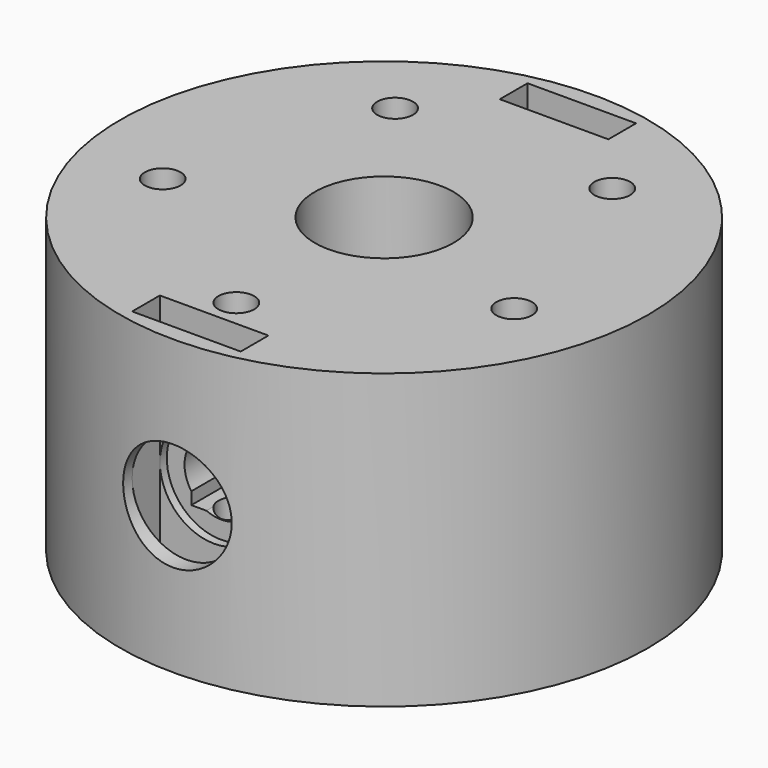
from build123d import *

# Parameters (mm, degrees)
SKETCH019_R           = 22.86
PAD003_DEPTH          = 25.4
SKETCH021_R           = 1.55
POCKET017_DEPTH       = 164.33691
POLARPATTERN007_COUNT = 5
SKETCH022_W           = 45.72
SKETCH022_H           = 45.72
PAD004_DEPTH          = 10
SKETCH023_W           = 5.15
SKETCH023_H           = 5.8
POCKET018_DEPTH       = 45.721
SKETCH025_R           = 4.7
POCKET020_DEPTH       = 5.21
SKETCH028_R           = 6
POCKET023_DEPTH       = 35.401
SKETCH027_R           = 1.5
POCKET024_DEPTH       = 10
SKETCH029_R           = 4.7
POCKET025_DEPTH       = 5.21
SKETCH031_W           = 9.4
SKETCH031_H           = 3
POCKET027_DEPTH       = 35.401
SKETCH034_R           = 3.1645
POCKET029_DEPTH       = 45.721
SKETCH030_W           = 45.72
SKETCH030_H           = 45.72
POCKET030_DEPTH       = 10


with BuildPart() as part:
    # Sketch019 → Pad003 (new body)
    with BuildSketch(Plane.XY):
        Circle(SKETCH019_R)
    extrude(amount=PAD003_DEPTH)

    # Sketch021 → Pocket017 (cut, through all)
    with BuildSketch(Plane(origin=(0, 0, 0), x_dir=(1, 0, 0), z_dir=(0, 0, -1))):
        with Locations((0, 16)):
            Circle(SKETCH021_R)
    pocket017 = extrude(amount=-POCKET017_DEPTH, mode=Mode.SUBTRACT)

    # PolarPattern007: Pocket017 ×5 about axis
    polarpattern007_axis = Axis((0, 0, 0), (0, 0, -1))
    for i in range(1, POLARPATTERN007_COUNT):
        add(pocket017.rotate(polarpattern007_axis, i * 360 / POLARPATTERN007_COUNT), mode=Mode.SUBTRACT)

    # Sketch022 (on Face2 of PolarPattern007) → Pad004 (join)
    with BuildSketch(Plane(origin=(0, 0, 0), x_dir=(1, 0, 0), z_dir=(0, 0, -1))):
        Rectangle(SKETCH022_W, SKETCH022_H)
    extrude(amount=PAD004_DEPTH)

    # Sketch023 (on Face7 of Pad004) → Pocket018 (cut, through all)
    with BuildSketch(Plane(origin=(0, 22.86, 0), x_dir=(-1, 0, 0), z_dir=(0, 1, 0))):
        with Locations((0, 12.7)):
            Rectangle(SKETCH023_W, SKETCH023_H)
    extrude(amount=-POCKET018_DEPTH, mode=Mode.SUBTRACT)

    # Sketch025 → Pocket020 (cut)
    with BuildSketch(Plane.XZ.offset(22.86)):
        with Locations((0, 12.7)):
            Circle(SKETCH025_R)
    extrude(amount=-POCKET020_DEPTH, mode=Mode.SUBTRACT)

    # Sketch028 → Pocket023 (cut, through all)
    with BuildSketch(Plane.XY.offset(25.4)):
        Circle(SKETCH028_R)
    extrude(amount=-POCKET023_DEPTH, mode=Mode.SUBTRACT)

    # Sketch027 (on Face14 of Pocket023) → Pocket024 (cut)
    with BuildSketch(Plane(origin=(-22.86, 0, 0), x_dir=(0, -1, 0), z_dir=(-1, 0, 0))):
        with Locations((0, 12.7)):
            Circle(SKETCH027_R)
    extrude(amount=-POCKET024_DEPTH, mode=Mode.SUBTRACT)

    # Sketch029 (on Face19 of Pocket024) → Pocket025 (cut)
    with BuildSketch(Plane(origin=(0, 22.86, 0), x_dir=(-1, 0, 0), z_dir=(0, 1, 0))):
        with Locations((0, 12.7)):
            Circle(SKETCH029_R)
    extrude(amount=-POCKET025_DEPTH, mode=Mode.SUBTRACT)

    # Sketch031 → Pocket027 (cut, through all)
    with BuildSketch(Plane.XY.offset(25.4)):
        with Locations((0, 19.9)):
            Rectangle(SKETCH031_W, SKETCH031_H)
        with Locations((0, -19.9)):
            Rectangle(SKETCH031_W, SKETCH031_H)
    extrude(amount=-POCKET027_DEPTH, mode=Mode.SUBTRACT)

    # Sketch034 → Pocket029 (cut, through all)
    with BuildSketch(Plane.XZ.offset(22.86)):
        with Locations((0, 12.7)):
            Circle(SKETCH034_R)
    extrude(amount=-POCKET029_DEPTH, mode=Mode.SUBTRACT)

    # Sketch030 (on Face31 of Pocket029) → Pocket030 (cut)
    with BuildSketch(Plane(origin=(0, 0, -10), x_dir=(1, 0, 0), z_dir=(0, 0, -1))):
        Rectangle(SKETCH030_W, SKETCH030_H)
    extrude(amount=-POCKET030_DEPTH, mode=Mode.SUBTRACT)


solid = part.part
